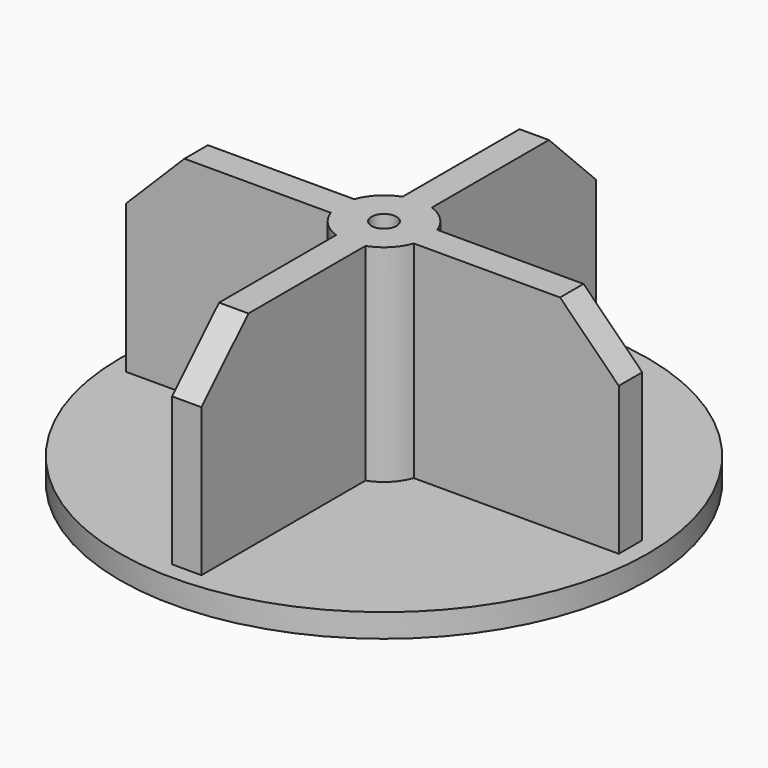
from build123d import *

# Parameters (mm, degrees)
F0_R     = 28.575
F1_DEPTH = 2.54
F3_DEPTH = 22.352
F4_SIZE  = 6.35
F5_R     = 4.7625
F6_DEPTH = 22.352
F8_D     = 2.7051
F8_DEPTH = 19.05
F8_TIP   = 0.8126940303


with BuildPart() as f1:
    # F0 (on Top) → F1 (new body)
    with BuildSketch(Plane.XY):
        Circle(F0_R)
    extrude(amount=F1_DEPTH)

    # F2 (on face) → F3 (join)
    with BuildSketch(Plane.XY.offset(2.54)):
        Polygon((26.67, -1.5875), (26.67, 1.5875), (1.5875, 1.5875), (1.5875, 26.67), (-1.5875, 26.67), (-1.5875, 1.5875), (-26.67, 1.5875), (-26.67, -1.5875), (-1.5875, -1.5875), (-1.5875, -26.67), (1.5875, -26.67), (1.5875, -1.5875), align=None)
    extrude(amount=F3_DEPTH)

    # F4
    f4_edges = [f1.edges().sort_by_distance(p)[0] for p in [
        (0, -26.67, 24.892),
        (26.67, 0, 24.892),
        (0, 26.67, 24.892),
        (-26.67, 0, 24.892),
    ]]
    chamfer(f4_edges, length=F4_SIZE)

    # F5 (on face) → F6 (join, through all)
    with BuildSketch(Plane.XY.offset(24.892)):
        Circle(F5_R)
    extrude(amount=-F6_DEPTH)

    # F8
    with Locations(Plane.XY.offset(24.892)):
        with Locations((0, 0)):
            Hole(F8_D / 2, depth=F8_DEPTH)
            with Locations((0, 0, -(F8_DEPTH + F8_TIP / 2))):  # 118° drill point
                Cone(0, F8_D / 2, F8_TIP, mode=Mode.SUBTRACT)


solid = f1.part
